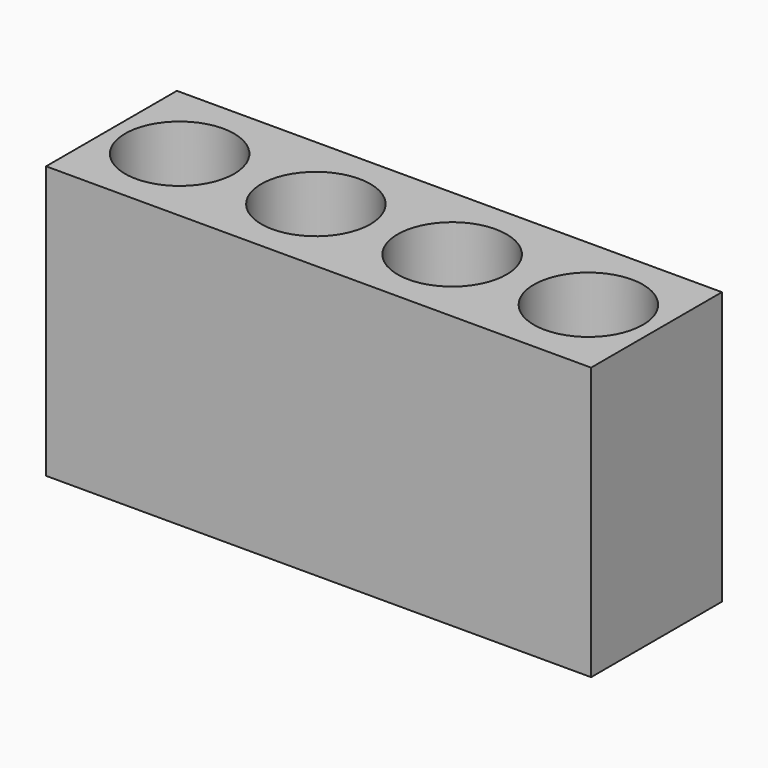
from build123d import *

# Parameters (mm, degrees)
F0_W     = 508
F0_H     = 152.4
F1_DEPTH = 254
F2_R     = 50.8
F3_DEPTH = 228.6


with BuildPart() as f1:
    # F0 (on Top) → F1 (new body)
    with BuildSketch(Plane.XY):
        Rectangle(F0_W, F0_H)
    extrude(amount=-F1_DEPTH)

    # F2 (on face) → F3 (cut)
    with BuildSketch(Plane.XY):
        with Locations((-63.5, 0)):
            Circle(F2_R)
        with Locations((63.5, 0)):
            Circle(F2_R)
        with Locations((-190.5, 0)):
            Circle(F2_R)
        with Locations((190.5, 0)):
            Circle(F2_R)
    extrude(amount=-F3_DEPTH, mode=Mode.SUBTRACT)


solid = f1.part
